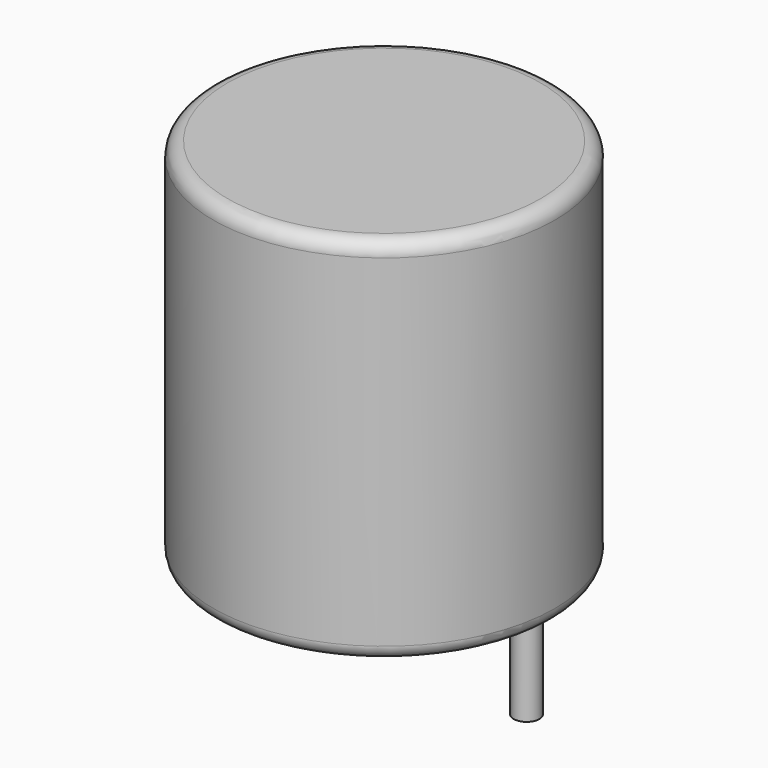
from build123d import *

# Parameters (mm, degrees)
SKETCH001_R       = 0.45
PAD001_DEPTH      = 6.5
PAD001_DEPTH_BACK = 3.5
SKETCH_R          = 6
PAD_DEPTH         = 13
FILLET_R          = 0.5


with BuildPart() as pad001:
    # Sketch001 → Pad001 (new body, two sides)
    with BuildSketch(Plane.XY.offset(0.5)) as pad001_sk:
        Circle(SKETCH001_R)
        with Locations((10, 0)):
            Circle(SKETCH001_R)
    extrude(amount=PAD001_DEPTH)
    extrude(pad001_sk.sketch, amount=-PAD001_DEPTH_BACK)


with BuildPart() as obj1:
    # Sketch → Pad (new body)
    with BuildSketch(Plane.XY.offset(0.1)):
        with Locations((5, 0)):
            Circle(SKETCH_R)
    extrude(amount=PAD_DEPTH)

    # Fillet
    fillet_edges = [obj1.edges().sort_by_distance(p)[0] for p in [
        (-1, 0, 0.1),
        (-1, 0, 13.1),
    ]]
    fillet(fillet_edges, radius=FILLET_R)

    # obj1: union Pad001
    add(pad001.part)


solid = obj1.part
